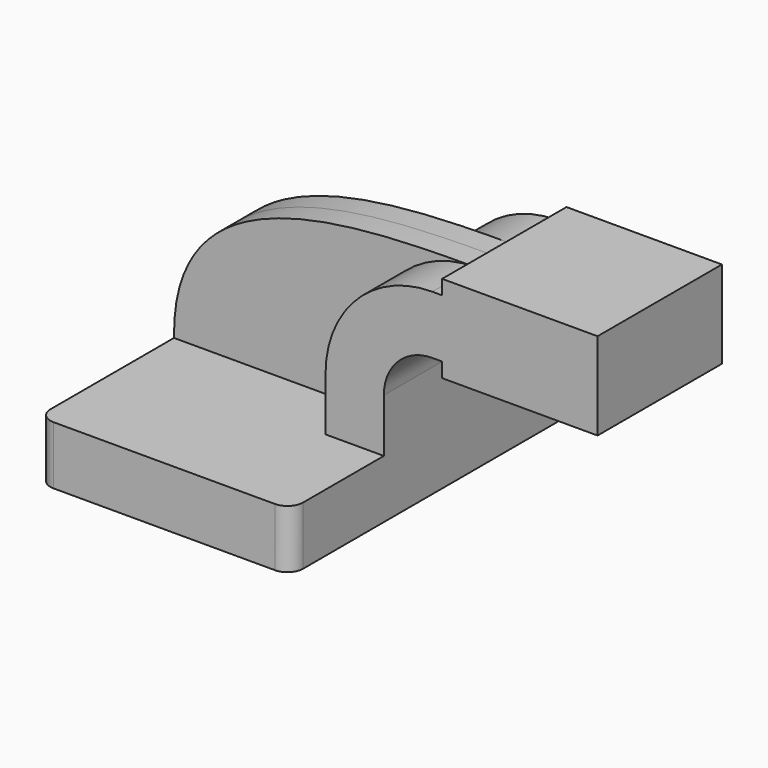
from build123d import *

# Parameters (mm, degrees)
F1_DEPTH = 63.5
F2_DEPTH = 25.4
F3_DEPTH = 7.9375
F4_R     = 5.08


with BuildPart() as f1:
    # F0 (on Front) → F1 (new body, symmetric)
    with BuildSketch(Plane.XZ):
        Polygon((22.225, 9.525), (-41.275, 9.525), (-41.275, -9.525), (41.275, -9.525), (41.275, 9.525), align=None)
    extrude(amount=F1_DEPTH, both=True)

    # F0 (on Front) → F2 (join, symmetric)
    with BuildSketch(Plane.XZ):
        with BuildLine():
            Line((22.225, 27.0002), (22.225, 9.525))
            Line((22.225, 9.525), (41.275, 9.525))
            Line((41.275, 9.525), (41.275, 27.0002))
            ThreePointArc((41.275, 27.0002), (45.92468, 38.22552), (57.15, 42.8752))
            Line((57.15, 42.8752), (60.325, 42.8752))
            Line((60.325, 42.8752), (60.325, 61.9252))
            Line((60.325, 61.9252), (57.15, 61.9252))
            ThreePointArc((57.15, 61.9252), (32.454296, 51.695904), (22.225, 27.0002))
        make_face()
        Polygon((60.325, 66.675), (60.325, 61.9252), (60.325, 42.8752), (60.325, 38.1), (111.125, 38.1), (111.125, 66.675), align=None)
    extrude(amount=F2_DEPTH, both=True)

    # F0 (on Front) → F3 (join, symmetric)
    with BuildSketch(Plane.XZ):
        with BuildLine():
            add(Edge.make_bspline(
                [(-41.275, 9.525), (-42.032037, 59.136383), (12.069872, 61.952318), (57.15, 61.9252)],
                knots=[0, 0, 0, 0, 111.504536, 111.504536, 111.504536, 111.504536], degree=3))
            Line((-41.275, 9.525), (22.225, 9.525))
            Line((22.225, 9.525), (22.225, 27.0002))
            ThreePointArc((22.225, 27.0002), (32.454296, 51.695904), (57.15, 61.9252))
        make_face()
    extrude(amount=F3_DEPTH, both=True)

    # F4
    f4_edges = [f1.edges().sort_by_distance(p)[0] for p in [
        (-41.275, -63.5, 0),
        (41.275, -63.5, 0),
        (41.275, 63.5, 0),
        (-41.275, 63.5, 0),
    ]]
    fillet(f4_edges, radius=F4_R)


solid = f1.part
